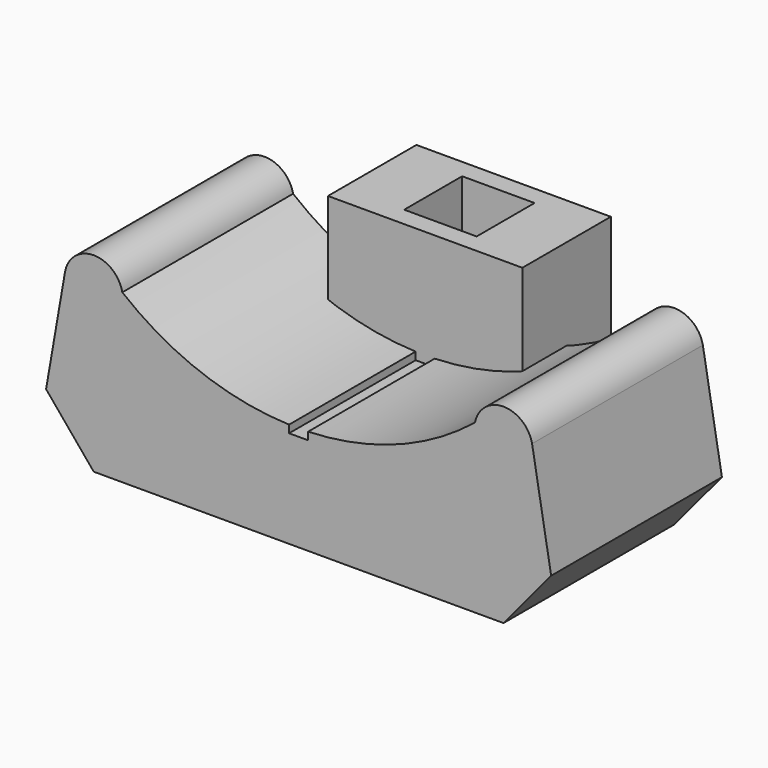
from build123d import *

# Parameters (mm, degrees)
F0_W     = 3.8
F0_H     = 3.8
F1_DEPTH = 1.2
F0_W_2   = 10.2
F0_H_2   = 5.8
F2_DEPTH = 11.2
F4_DEPTH = 11.2
F5_W     = 8.5
F5_H     = 1.5
F6_DEPTH = 5


with BuildPart() as f1:
    # F0 (on Top) → F1 (new body)
    with BuildSketch(Plane.XY):
        Rectangle(F0_W, F0_H)
    extrude(amount=F1_DEPTH)

    # F0 (on Top) → F2 (join)
    with BuildSketch(Plane.XY):
        Rectangle(F0_W_2, F0_H_2)
        Rectangle(F0_W, F0_H, mode=Mode.SUBTRACT)
    extrude(amount=F2_DEPTH)


with BuildPart() as f4:
    # F3 (on Front) → F4 (new body)
    with BuildSketch(Plane.XZ):
        with BuildLine():
            Line((-13.25, 3), (-10.75, 0))
            Line((-10.75, 0), (10.75, 0))
            Line((10.75, 0), (13.25, 3))
            Line((13.25, 3), (12.25, 8.774045))
            ThreePointArc((12.25, 8.774045), (10.75, 10), (9.25, 8.774045))
            ThreePointArc((9.25, 8.774045), (5.141164, 6.42809), (0.5, 5.508504))
            Line((0.5, 5.508504), (0.5, 5.108504))
            Line((0.5, 5.108504), (-0.5, 5.108504))
            Line((-0.5, 5.108504), (-0.5, 5.508504))
            ThreePointArc((-0.5, 5.508504), (-5.141164, 6.42809), (-9.25, 8.774045))
            ThreePointArc((-9.25, 8.774045), (-10.75, 10), (-12.25, 8.774045))
            Line((-12.25, 8.774045), (-13.25, 3))
        make_face()
    extrude(amount=F4_DEPTH)

    # F5 (on face) → F6 (cut)
    with BuildSketch(Plane(origin=(0, 0, 0), x_dir=(1, 0, 0), z_dir=(0, 0, -1))):
        with Locations((0, 5.6)):
            Rectangle(F5_W, F5_H)
    extrude(amount=-F6_DEPTH, mode=Mode.SUBTRACT)


solid = Compound([f1.part, f4.part])
